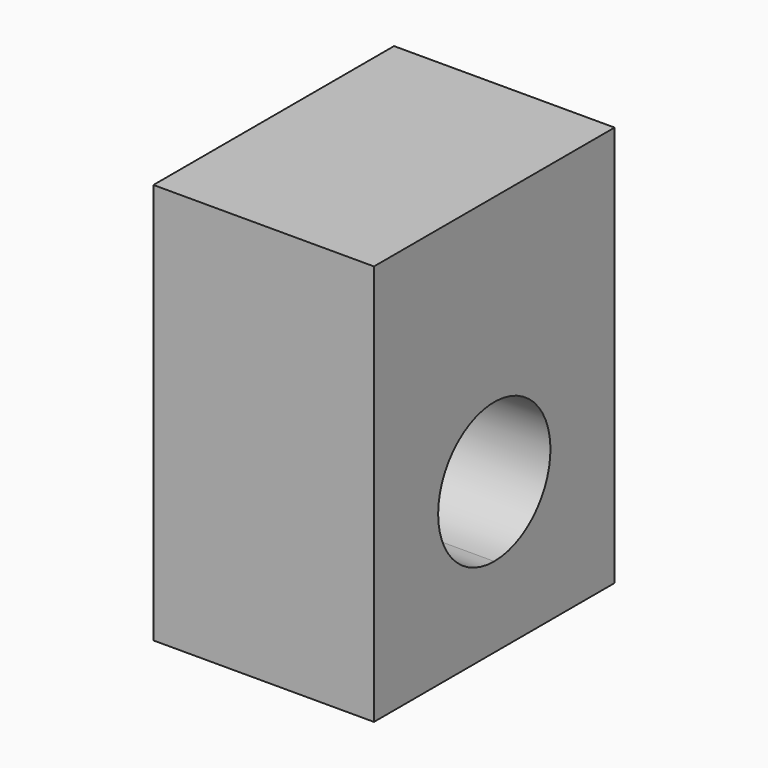
from build123d import *

# Parameters (mm, degrees)
F0_W     = 11
F0_H     = 15
F2_DEPTH = 20
F3_DEPTH = 19
F6_DEPTH = 15


with BuildPart() as f2:
    # F0 (on Top) → F2 (new body)
    with BuildSketch(Plane.XY):
        Rectangle(F0_W, F0_H)
    extrude(amount=F2_DEPTH)


with BuildPart() as f3:
    # F1 (on Top) → F3 (new body)
    with BuildSketch(Plane.XY):
        with BuildLine():
            ThreePointArc((9.9780160072, 0.6627190658), (-8.9648731573, -4.4306939945), (6.5869096361, 7.5241359269))
            Line((6.5869096361, 7.5241359269), (7.9042915633, 9.0289631123))
            ThreePointArc((7.9042915633, 9.0289631123), (-10.7578477888, -5.3168327934), (11.9736192086, 0.7952628789))
            Line((11.9736192086, 0.7952628789), (9.9780160072, 0.6627190658))
        make_face()
    extrude(amount=F3_DEPTH)


with BuildPart() as f6_tool:
    # F5 (on offset) → F6 (new body)
    with BuildSketch(Plane(origin=(-5.5, 0, 0), x_dir=(0, -1, 0), z_dir=(-1, 0, 0))):
        with BuildLine():
            ThreePointArc((0, 4), (2.4748737342, 5.0251262658), (3.5, 7.5))
            ThreePointArc((3.5, 7.5), (-2.4748737342, 9.9748737342), (0, 4))
        make_face()
    extrude(amount=-F6_DEPTH)


with BuildPart() as f2_1:
    add(f2.part)

    # F6: cut by f6_tool
    add(f6_tool.part, mode=Mode.SUBTRACT)


with BuildPart() as f3_1:
    add(f3.part)

    # F6: cut by f6_tool
    add(f6_tool.part, mode=Mode.SUBTRACT)


solid = f2_1.part
